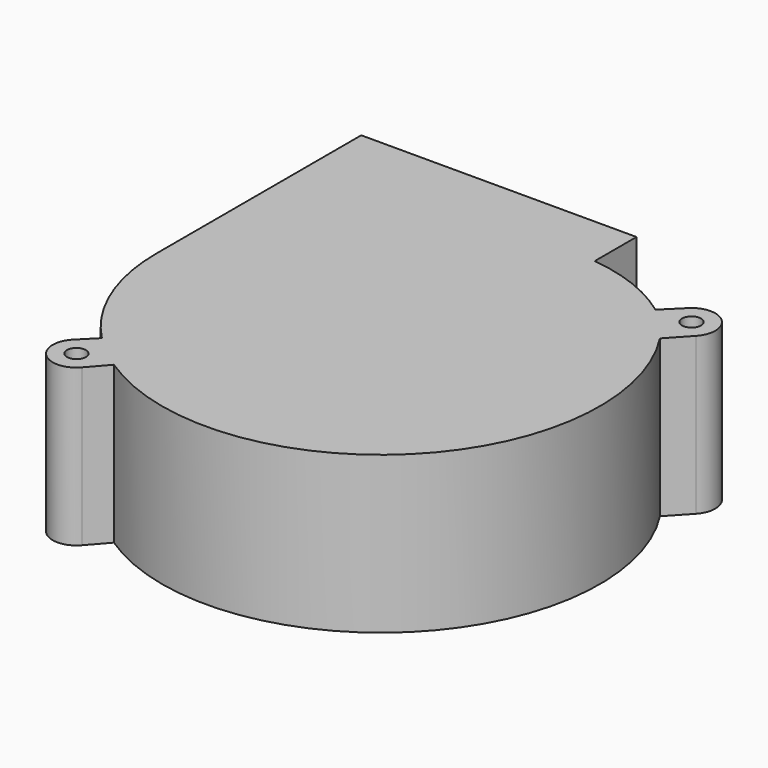
from build123d import *

# Parameters (mm, degrees)
F0_R     = 2
F1_DEPTH = 33
F2_W     = 54
F2_H     = 29
F3_DEPTH = 15


with BuildPart() as f1:
    # F0 (on Top) → F1 (new body)
    with BuildSketch(Plane.XY):
        with BuildLine():
            Line((38.111041, 50.456811), (-19.888959, 50.456811))
            Line((-19.888959, 50.456811), (-19.888959, -3.543189))
            ThreePointArc((-19.888959, -3.543189), (-16.820127, -19.241913), (-8.065448, -32.629344))
            Line((-8.065448, -32.629344), (-11.31872, -35.904956))
            Line((-11.31872, -35.904956), (-11.550578, -36.138406))
            ThreePointArc((-11.550578, -36.138406), (-11.238961, -43.254993), (-4.12779, -42.83767))
            Line((-4.12779, -42.83767), (-0.589658, -38.798335))
            ThreePointArc((-0.589658, -38.798335), (57.368005, -33.227692), (63.697868, 24.651973))
            Line((63.697868, 24.651973), (67.779562, 29.059465))
            ThreePointArc((67.779562, 29.059465), (67.475048, 36.155927), (60.381633, 35.787204))
            Line((60.381633, 35.787204), (56.727759, 32.172584))
            ThreePointArc((56.727759, 32.172584), (47.901206, 37.046076), (38.111041, 39.456811))
            Line((38.111041, 39.456811), (38.111041, 50.456811))
        make_face()
        with Locations((-7.888959, -39.543189)):
            Circle(F0_R, mode=Mode.SUBTRACT)
        with BuildLine():
            ThreePointArc((-5.091348, -35.399112), (-4.707802, -35.685698), (-4.353425, -36.007655))
            ThreePointArc((-4.353425, -36.007655), (-4.724132, -35.7055), (-5.091348, -35.399112))
        make_face(mode=Mode.SUBTRACT)
        with Locations((64.111041, 32.456811)):
            Circle(F0_R, mode=Mode.SUBTRACT)
    extrude(amount=F1_DEPTH)

    # F2 (on face) → F3 (cut)
    with BuildSketch(Plane(origin=(0, 50.456811, 0), x_dir=(-1, 0, 0), z_dir=(0, 1, 0))):
        with Locations((-9.111041, 16.5)):
            Rectangle(F2_W, F2_H)
    extrude(amount=-F3_DEPTH, mode=Mode.SUBTRACT)


solid = f1.part
